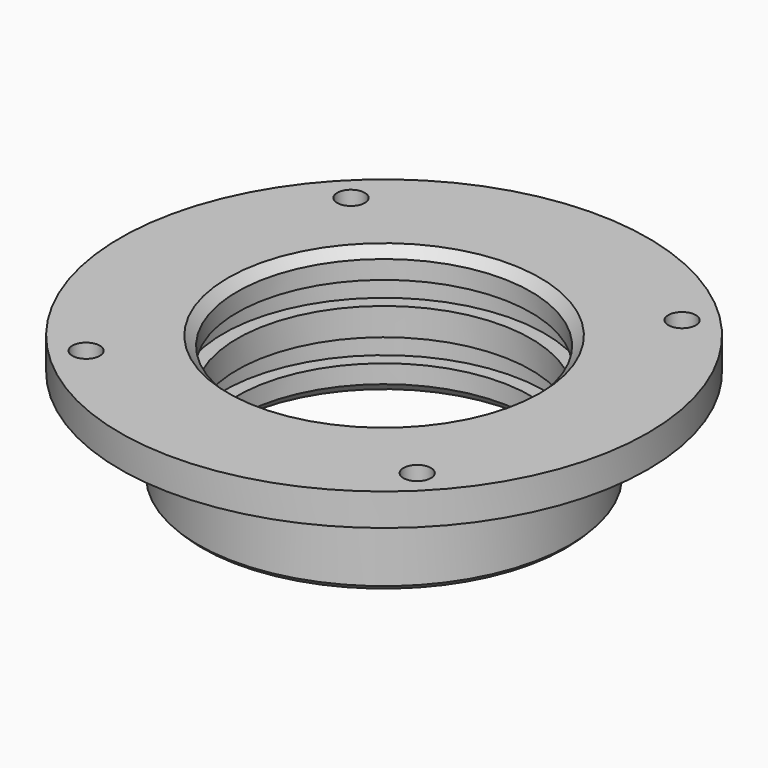
from build123d import *

# Parameters (mm, degrees)
F2_SIZE  = 2
F3_SIZE  = 1
F4_R     = 3
F5_DEPTH = 25


with BuildPart() as f1:
    # F0 (on Front) → F1 (revolve)
    with BuildSketch(Plane.XZ):
        Polygon((57.5, 0), (32, 0), (32, -6), (35, -6), (35, -11), (32, -11), (32, -17), (35, -17), (35, -22), (32, -22), (32, -28), (40.5, -28), (40.5, -7), (57.5, -7), align=None)
    revolve(axis=Axis((0, 0, -4.022711), (0, 0, -1)))

    # F2
    f2_edges = [f1.edges().sort_by_distance(p)[0] for p in [
        (-32, 0, 0),
        (-32, 0, -28),
    ]]
    chamfer(f2_edges, length=F2_SIZE)

    # F3
    f3_edges = [f1.edges().sort_by_distance(p)[0] for p in [
        (-40.5, 0, -28),
    ]]
    chamfer(f3_edges, length=F3_SIZE)

    # F4 (on face) → F5 (cut)
    with BuildSketch(Plane.XY):
        with Locations((-36.062446, 36.062446)):
            Circle(F4_R)
        with Locations((36.062446, 36.062446)):
            Circle(F4_R)
        with Locations((36.062446, -36.062446)):
            Circle(F4_R)
        with Locations((-36.062446, -36.062446)):
            Circle(F4_R)
    extrude(amount=-F5_DEPTH, mode=Mode.SUBTRACT)


solid = f1.part
